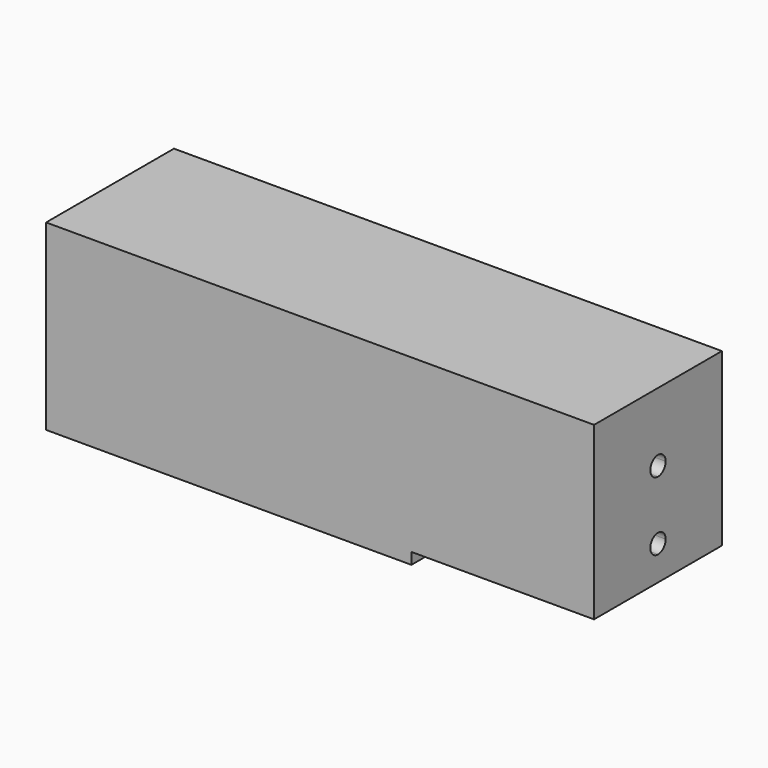
from build123d import *

# Parameters (mm, degrees)
F0_W     = 120
F0_H     = 35
F1_DEPTH = 40
F3_DEPTH = 15
F4_W     = 35
F4_H     = 2.5
F5_DEPTH = 40


with BuildPart() as f1:
    # F0 (on Top) → F1 (new body)
    with BuildSketch(Plane.XY):
        with Locations((-60, 17.5)):
            Rectangle(F0_W, F0_H)
    extrude(amount=F1_DEPTH)

    # F2 (on face) → F3 (cut)
    with BuildSketch(Plane.YZ):
        with BuildLine():
            ThreePointArc((17.5, 12.1), (15.4, 10), (17.5, 7.9))
            Line((17.5, 7.9), (17.5, 10))
            Line((17.5, 10), (17.5, 12.1))
        make_face()
        with BuildLine():
            ThreePointArc((19.6, 25), (16.015076, 26.484924), (17.5, 22.9))
            ThreePointArc((17.5, 22.9), (18.984924, 23.515076), (19.6, 25))
        make_face()
        with BuildLine():
            Line((17.5, 10), (17.5, 7.9))
            ThreePointArc((17.5, 7.9), (18.984924, 8.515076), (19.6, 10))
            ThreePointArc((19.6, 10), (18.984924, 11.484924), (17.5, 12.1))
            Line((17.5, 12.1), (17.5, 10))
        make_face()
    extrude(amount=-F3_DEPTH, mode=Mode.SUBTRACT)

    # F4 (on face) → F5 (cut)
    with BuildSketch(Plane.YZ):
        with Locations((17.5, 1.25)):
            Rectangle(F4_W, F4_H)
    extrude(amount=-F5_DEPTH, mode=Mode.SUBTRACT)


solid = f1.part
